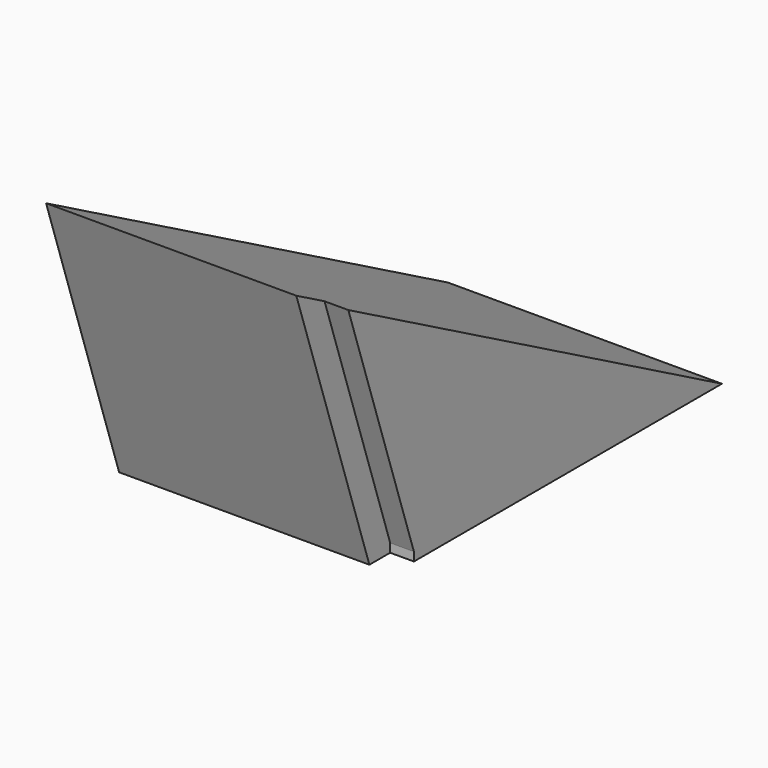
from build123d import *

# Parameters (mm, degrees)
F0_W     = 30
F0_H     = 45
F0_H_2   = 10
F1_DEPTH = 30
F3_DEPTH = 30.001
F4_W     = 2.6
F4_H     = 31.6227766017
F5_DEPTH = 3
F7_DEPTH = 2.6


with BuildPart() as f1:
    # F0 (on Top) → F1 (new body)
    with BuildSketch(Plane.XY):
        Rectangle(F0_W, F0_H)
        with Locations((0, -27.5)):
            Rectangle(F0_W, F0_H_2)
    extrude(amount=F1_DEPTH)

    # F2 (on face) → F3 (cut, through all)
    with BuildSketch(Plane.YZ.offset(15)):
        Polygon((-32.5, 0), (-22.5, 0), (-32.5, 30), align=None)
        Polygon((22.5, 30), (-32.5, 30), (22.5, 0), align=None)
    extrude(amount=-F3_DEPTH, mode=Mode.SUBTRACT)

    # F4 (on face) → F5 (cut)
    with BuildSketch(Plane(origin=(0, -20.25, -6.75), x_dir=(1, 0, 0), z_dir=(0, -0.9486832981, -0.316227766))):
        with Locations((13.7, 22.9265130362)):
            Rectangle(F4_W, F4_H)
    extrude(amount=-F5_DEPTH, mode=Mode.SUBTRACT)

    # F6 (on face) → F7 (cut)
    with BuildSketch(Plane.YZ.offset(15)):
        Polygon((-19.6539501058, 0), (-19.6539501058, 0.9486832981), (-22.5, 0), align=None)
    extrude(amount=-F7_DEPTH, mode=Mode.SUBTRACT)


solid = f1.part
